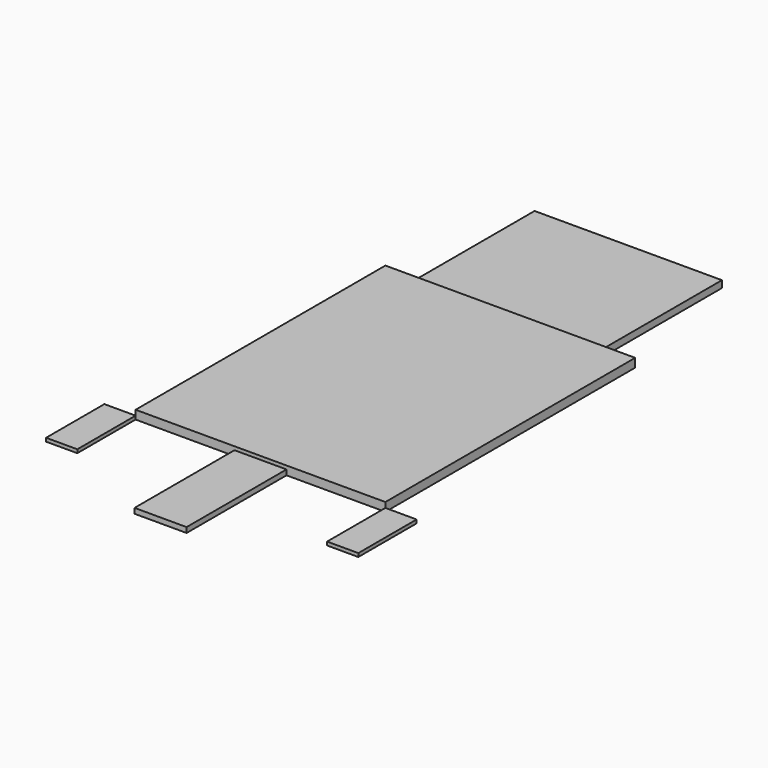
from build123d import *

# Parameters (mm, degrees)
F0_W     = 3657.6
F0_H     = 4572
F1_DEPTH = 127
F3_START = -25.4
F2_W     = 2743.2
F2_H     = 2159
F3_DEPTH = 101.6
F5_START = -50.8
F4_W     = 762
F4_H     = 1828.8
F5_DEPTH = 76.2
F7_START = -76.2
F6_W     = 457.2
F6_H     = 1066.8
F7_DEPTH = 50.8


with BuildPart() as f1:
    # F0 (on Top) → F1 (new body)
    with BuildSketch(Plane.XY):
        with Locations((1828.8, 2286)):
            Rectangle(F0_W, F0_H)
    extrude(amount=F1_DEPTH)


with BuildPart() as f3:
    # F2 (on face) → F3 (new body)
    with BuildSketch(Plane.XY.offset(127).offset(F3_START)):
        with Locations((1828.8, 5651.5)):
            Rectangle(F2_W, F2_H)
    extrude(amount=-F3_DEPTH)


with BuildPart() as f5:
    # F4 (on face) → F5 (new body)
    with BuildSketch(Plane.XY.offset(127).offset(F5_START)):
        with Locations((1828.8, -914.4)):
            Rectangle(F4_W, F4_H)
    extrude(amount=-F5_DEPTH)


with BuildPart() as f7:
    # F6 (on face) → F7 (new body)
    with BuildSketch(Plane.XY.offset(127).offset(F7_START)):
        with Locations((3886.2, -533.4)):
            Rectangle(F6_W, F6_H)
    extrude(amount=-F7_DEPTH)


with BuildPart() as f7b:
    # F6 (on face) → F7, piece 2 (new body)
    with BuildSketch(Plane.XY.offset(127).offset(F7_START)):
        with Locations((-228.6, -533.4)):
            Rectangle(F6_W, F6_H)
    extrude(amount=-F7_DEPTH)


solid = Compound([f1.part, f3.part, f5.part, f7.part, f7b.part])
